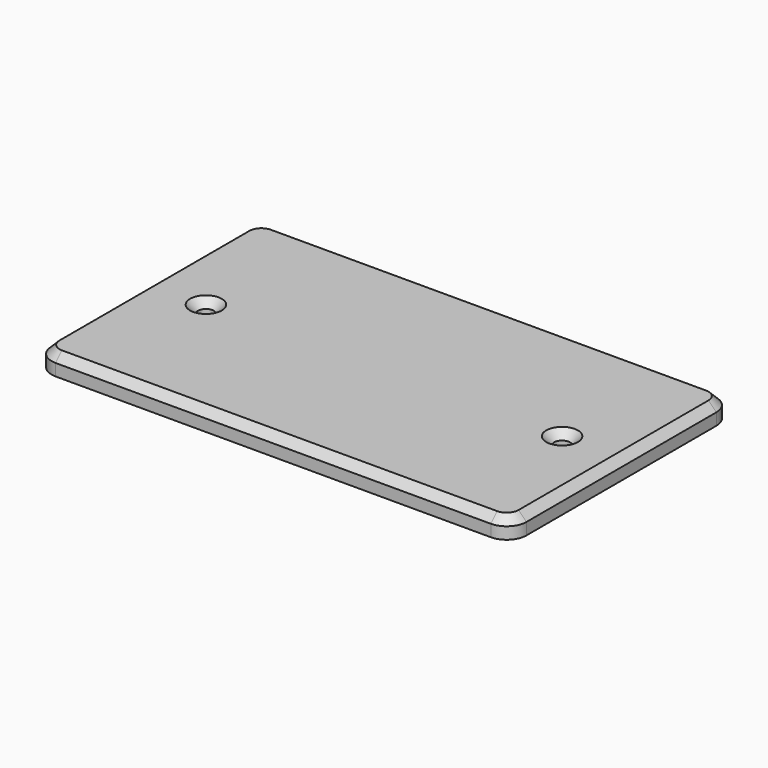
from build123d import *

# Parameters (mm, degrees)
SKETCH_R     = 2
PAD_DEPTH    = 5
CHAMFER_SIZE = 2


with BuildPart() as part:
    # Sketch → Pad (new body)
    with BuildSketch(Plane.XY):
        with BuildLine():
            Line((-60, 30), (-60, -30))
            ThreePointArc((-60, -30), (-58.535534, -33.535534), (-55, -35))
            Line((-55, -35), (55, -35))
            ThreePointArc((55, -35), (58.535534, -33.535534), (60, -30))
            Line((60, -30), (60, 30))
            ThreePointArc((60, 30), (58.535534, 33.535534), (55, 35))
            Line((55, 35), (-55, 35))
            ThreePointArc((-55, 35), (-58.535534, 33.535534), (-60, 30))
        make_face()
        with Locations((-45, 0)):
            Circle(SKETCH_R, mode=Mode.SUBTRACT)
        with Locations((45, 0)):
            Circle(SKETCH_R, mode=Mode.SUBTRACT)
    extrude(amount=PAD_DEPTH)

    # Chamfer
    chamfer_edges = [part.edges().sort_by_distance(p)[0] for p in [
        (-60, 0, 5),
        (-58.535534, -33.535534, 5),
        (0, -35, 5),
        (58.535534, -33.535534, 5),
        (60, 0, 5),
        (58.535534, 33.535534, 5),
        (0, 35, 5),
        (-58.535534, 33.535534, 5),
        (43, 0, 5),
        (-47, 0, 5),
    ]]
    chamfer(chamfer_edges, length=CHAMFER_SIZE)


solid = part.part
